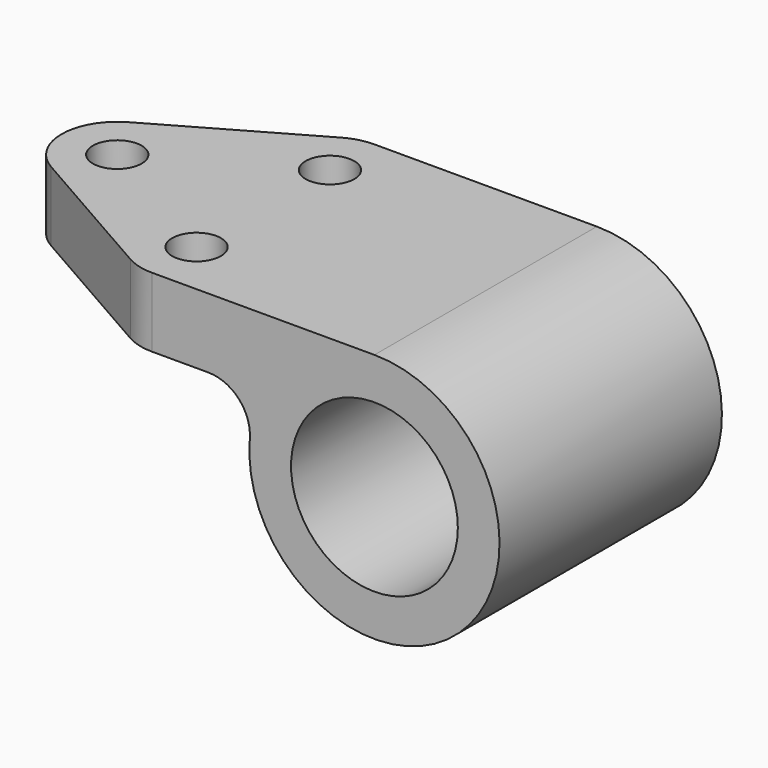
from build123d import *

# Parameters (mm, degrees)
F0_R     = 19.05
F1_DEPTH = 31.75
F2_DEPTH = 4.7625
F4_DEPTH = 57.151
F3_R     = 5.5626
F5_DEPTH = 57.151


with BuildPart() as f1:
    # F0 (on Front) → F1 (new body, symmetric)
    with BuildSketch(Plane.XZ):
        with BuildLine():
            Line((96.8502, 57.15), (0, 57.15))
            Line((0, 57.15), (0, 41.275))
            Line((0, 41.275), (27.0002, 41.275))
            Line((27.0002, 41.275), (58.8827221407, 41.275))
            ThreePointArc((58.8827221407, 41.275), (65.8929323283, 38.1984554837), (68.3745916055, 30.95625))
            ThreePointArc((68.3745916055, 30.95625), (71.0782767463, 16.2324477191), (80.8551747025, 4.8961108636))
            ThreePointArc((80.8551747025, 4.8961108636), (124.1737693319, 20.2111979959), (96.8502, 57.15))
        make_face()
        with Locations((96.8502, 28.575)):
            Circle(F0_R, mode=Mode.SUBTRACT)
    extrude(amount=F1_DEPTH, both=True)

    # F0 (on Front) → F2 (join, symmetric)
    with BuildSketch(Plane.XZ):
        with BuildLine():
            Line((27.0002, 41.275), (80.8551747025, 4.8961108636))
            ThreePointArc((80.8551747025, 4.8961108636), (71.0782767463, 16.2324477191), (68.3745916055, 30.95625))
            ThreePointArc((68.3745916055, 30.95625), (65.8929323283, 38.1984554837), (58.8827221407, 41.275))
            Line((58.8827221407, 41.275), (27.0002, 41.275))
        make_face()
    extrude(amount=F2_DEPTH, both=True)

    # F3 (on face) → F4 (cut, through all)
    with BuildSketch(Plane.XY.offset(57.15)):
        with BuildLine():
            ThreePointArc((0, 1.86e-08), (1.7161647423, 6.3753715996), (6.4008445559, 11.0277214642))
            Line((6.4008445559, 11.0277214642), (39.7510445559, 30.0777214642))
            ThreePointArc((39.7510445559, 30.0777214642), (42.7915240875, 31.3248128824), (46.0502, 31.75))
            Line((46.0502, 31.75), (0, 31.75))
            Line((0, 31.75), (0, 1.86e-08))
        make_face()
        with BuildLine():
            ThreePointArc((6.4008445559, -11.0277214642), (1.716164733, -6.3753715835), (0, 1.86e-08))
            Line((0, 1.86e-08), (0, -31.75))
            Line((0, -31.75), (46.0502, -31.75))
            ThreePointArc((46.0502, -31.75), (42.7915240875, -31.3248128824), (39.7510445559, -30.0777214642))
            Line((39.7510445559, -30.0777214642), (6.4008445559, -11.0277214642))
        make_face()
    extrude(amount=-F4_DEPTH, mode=Mode.SUBTRACT)

    # F3 (on face) → F5 (cut, through all)
    with BuildSketch(Plane.XY.offset(57.15)):
        with Locations((12.7, 0)):
            Circle(F3_R)
        with Locations((46.0502, 19.05)):
            Circle(F3_R)
        with Locations((46.0502, -19.05)):
            Circle(F3_R)
    extrude(amount=-F5_DEPTH, mode=Mode.SUBTRACT)


solid = f1.part
